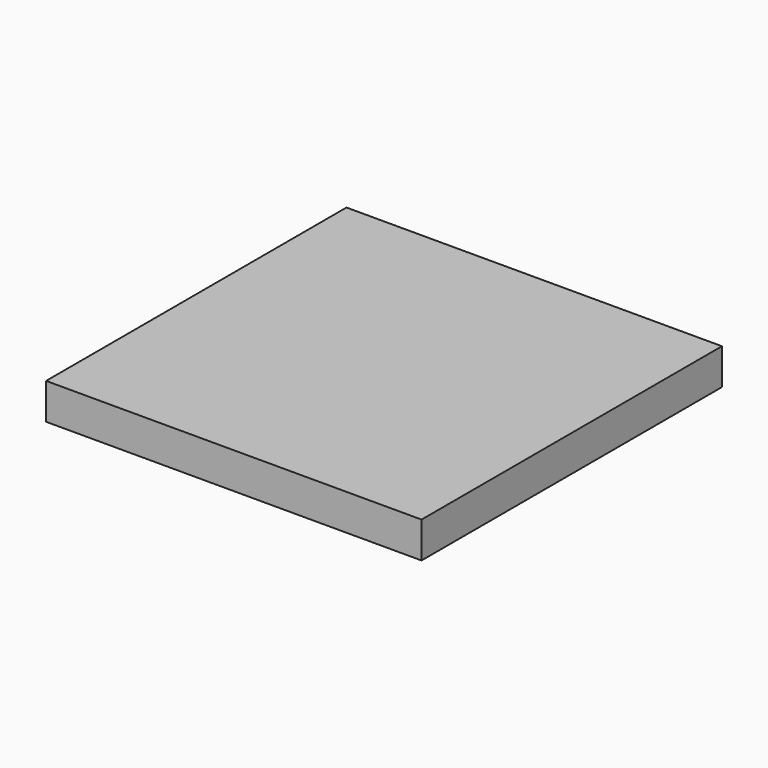
from build123d import *

# Parameters (mm, degrees)
SKETCH021_W                      = 31.8
SKETCH021_H                      = 31.8
PAD014_DEPTH                     = 3.05
SKETCH022_W                      = 28.8
SKETCH022_H                      = 28.8
POCKET008_DEPTH                  = 2.2
SKETCH023_R                      = 3.25
SKETCH023_R_2                    = 2.45
PAD015_DEPTH                     = 2.2
SKETCH023_LINEARPATTERN002_2_R   = 3.25
SKETCH023_LINEARPATTERN002_2_R_2 = 2.45
PAD015_LINEARPATTERN002_2_DEPTH  = 2.2
SKETCH023_LINEARPATTERN002_3_R   = 3.25
SKETCH023_LINEARPATTERN002_3_R_2 = 2.45
PAD015_LINEARPATTERN002_3_DEPTH  = 2.2
LINEARPATTERN003_COUNT           = 3
LINEARPATTERN003_PITCH           = 8
BODY005_PLACEMENT_ANGLE          = 180


with BuildPart() as part:
    # Sketch021 → Pad014 (new body)
    with BuildSketch(Plane.XY):
        Rectangle(SKETCH021_W, SKETCH021_H)
    extrude(amount=PAD014_DEPTH)

    # Sketch022 (on Face6 of Pad014) → Pocket008 (cut)
    with BuildSketch(Plane.XY.offset(3.05)):
        Rectangle(SKETCH022_W, SKETCH022_H)
    extrude(amount=-POCKET008_DEPTH, mode=Mode.SUBTRACT)

    # Sketch023 (on Face11 of Pocket008) → Pad015 (join)
    with BuildSketch(Plane.XY.offset(0.85)):
        with Locations((8, 8)):
            Circle(SKETCH023_R)
        with Locations((8, 8)):
            Circle(SKETCH023_R_2, mode=Mode.SUBTRACT)
    pad015 = extrude(amount=PAD015_DEPTH)

    # Sketch023 LinearPattern002 2 → Pad015 LinearPattern002 2 (add)
    with BuildSketch(Plane(origin=(-8, 0, 0.85), x_dir=(1, 0, 0), z_dir=(0, 0, 1))):
        with Locations((8, 8)):
            Circle(SKETCH023_LINEARPATTERN002_2_R)
        with Locations((8, 8)):
            Circle(SKETCH023_LINEARPATTERN002_2_R_2, mode=Mode.SUBTRACT)
    pad015_linearpattern002_2 = extrude(amount=PAD015_LINEARPATTERN002_2_DEPTH)

    # Sketch023 LinearPattern002 3 → Pad015 LinearPattern002 3 (add)
    with BuildSketch(Plane(origin=(-16, 0, 0.85), x_dir=(1, 0, 0), z_dir=(0, 0, 1))):
        with Locations((8, 8)):
            Circle(SKETCH023_LINEARPATTERN002_3_R)
        with Locations((8, 8)):
            Circle(SKETCH023_LINEARPATTERN002_3_R_2, mode=Mode.SUBTRACT)
    pad015_linearpattern002_3 = extrude(amount=PAD015_LINEARPATTERN002_3_DEPTH)

    # LinearPattern003: Pad015, Pad015 LinearPattern002 2, Pad015 LinearPattern002 3 ×3
    with Locations(*[(0, -i * LINEARPATTERN003_PITCH, 0) for i in range(1, LINEARPATTERN003_COUNT)]):
        add(pad015)
        add(pad015_linearpattern002_2)
        add(pad015_linearpattern002_3)


with BuildPart() as part_1:
    # Body005 placement: moved
    add(part.part.moved(Location((0, 0, -0.15))).rotate(Axis((0, 0, -0.15), (0, 1, 0)), BODY005_PLACEMENT_ANGLE))


solid = part_1.part
